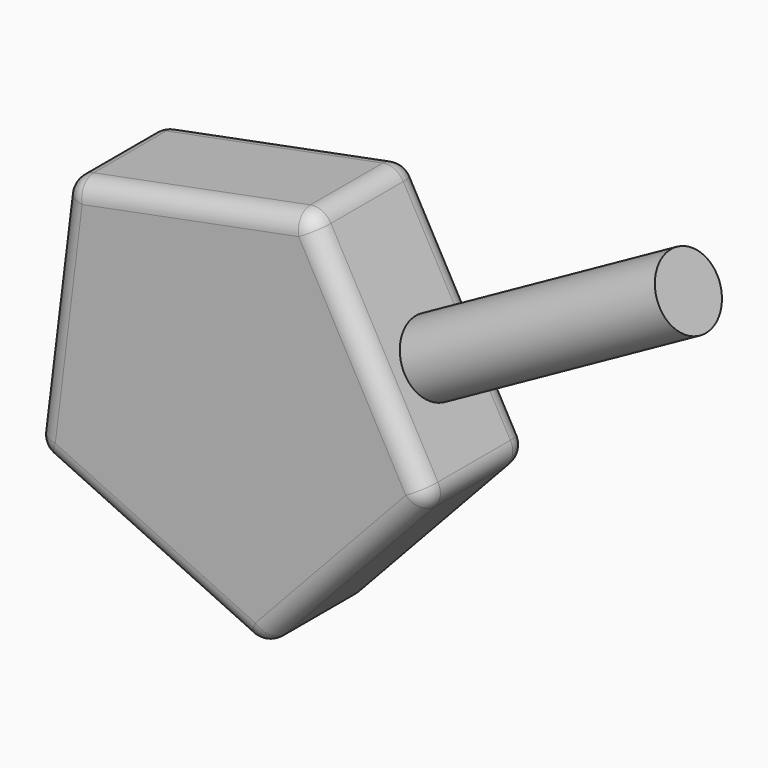
from build123d import *

# Parameters (mm, degrees)
F1_DEPTH = 34.036
F2_R     = 9.4659800125
F3_DEPTH = 76.962
F4_R     = 5.08


with BuildPart() as f1:
    # F0 (on Front) → F1 (new body)
    with BuildSketch(Plane.XZ):
        Polygon((55.3876371372, -6.7820224733), (23.5658078206, 50.581013021), (-40.8231669317, 38.0428077057), (-48.7959125128, -27.0692648314), (10.6656344867, -54.772533422), align=None)
    extrude(amount=F1_DEPTH)

    # F2 (on face) → F3 (join)
    with BuildSketch(Plane(origin=(39.4767224789, 0, 21.8994952738), x_dir=(0, 1, 0), z_dir=(0.8744581925, 0, 0.4851008861))):
        with Locations((-16.4809413254, -6.0359826311)):
            Circle(F2_R)
    extrude(amount=F3_DEPTH)

    # F4
    f4_edges = [f1.edges().sort_by_distance(p)[0] for p in [
        (39.476722, 0, 21.899495),
        (55.387637, -17.018, -6.782022),
        (23.565808, -17.018, 50.581013),
        (39.476722, -34.036, 21.899495),
        (33.026636, -34.036, -30.777278),
        (10.665634, -17.018, -54.772533),
        (33.026636, 0, -30.777278),
        (-8.62868, 0, 44.31191),
        (-8.62868, -34.036, 44.31191),
        (-44.80954, -34.036, 5.486771),
        (-19.065139, -34.036, -40.920899),
        (-40.823167, -17.018, 38.042808),
        (-48.795913, -17.018, -27.069265),
        (-44.80954, 0, 5.486771),
        (-19.065139, 0, -40.920899),
    ]]
    fillet(f4_edges, radius=F4_R)


solid = f1.part
